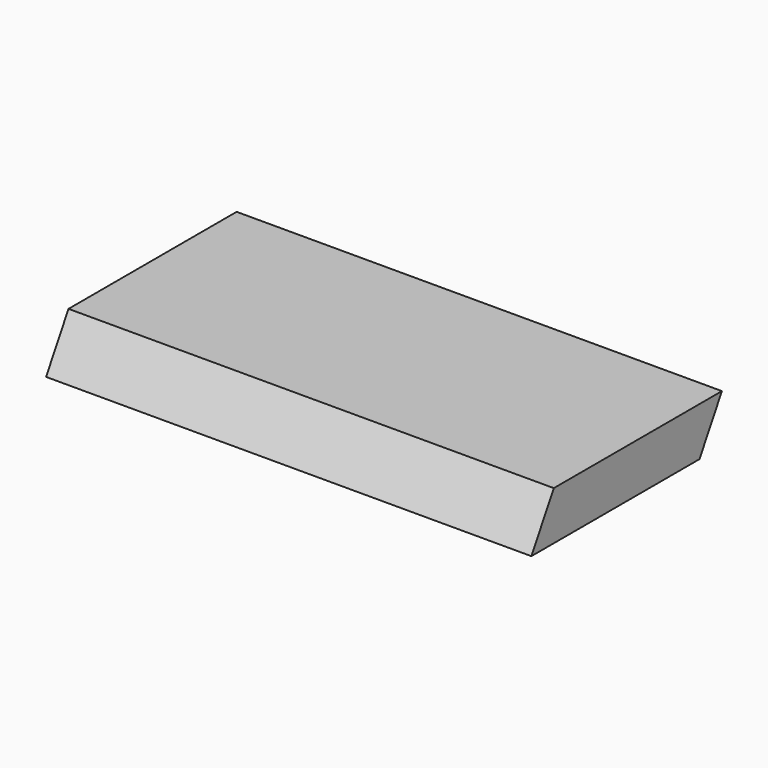
from build123d import *

# Parameters (mm, degrees)
F0_W     = 200
F0_H     = 98.15
F1_DEPTH = 20
F3_DEPTH = 200.001
F4_DEPTH = 200.001


with BuildPart() as f1:
    # F0 (on Top) → F1 (new body)
    with BuildSketch(Plane.XY):
        Rectangle(F0_W, F0_H)
    extrude(amount=F1_DEPTH)

    # F2 (on face) → F3 (cut, through all)
    with BuildSketch(Plane(origin=(-100, 0, 0), x_dir=(0, -1, 0), z_dir=(-1, 0, 0))):
        Polygon((-37.527995, 0), (-49.075, 20), (-49.075, 0), align=None)
        Polygon((37.527995, 20), (49.075, 0), (49.075, 20), align=None)
    extrude(amount=-F3_DEPTH, mode=Mode.SUBTRACT)

    # F2 (on face) → F4 (cut, through all)
    with BuildSketch(Plane(origin=(-100, 0, 0), x_dir=(0, -1, 0), z_dir=(-1, 0, 0))):
        Polygon((-37.527995, 0), (-49.075, 20), (-49.075, 0), align=None)
        Polygon((37.527995, 20), (49.075, 0), (49.075, 20), align=None)
    extrude(amount=-F4_DEPTH, mode=Mode.SUBTRACT)


solid = f1.part
